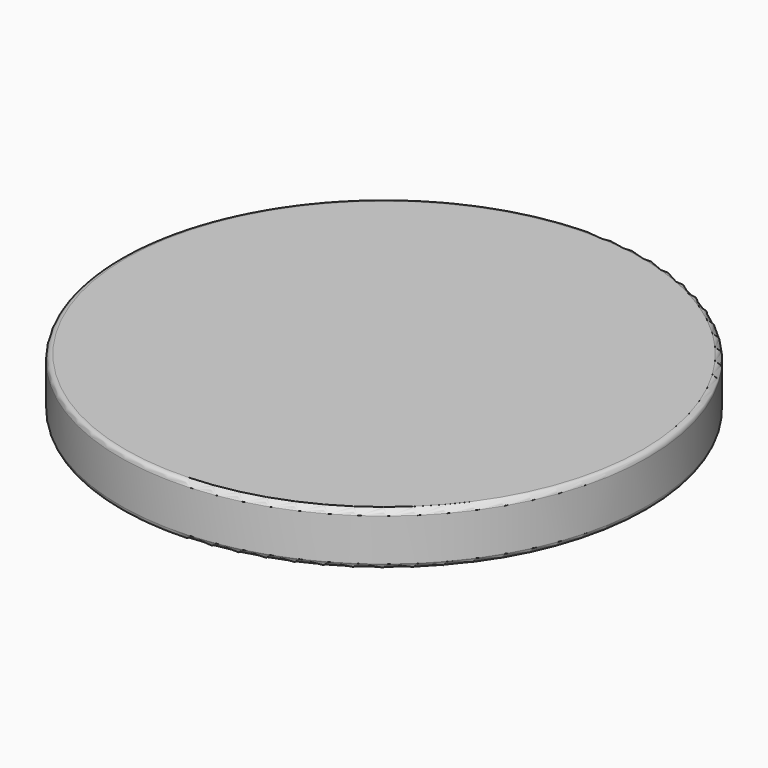
from build123d import *

# Parameters (mm, degrees)
CYLINDER001_R     = 48
CYLINDER001_DEPTH = 8
CYLINDER_R        = 50
CYLINDER_DEPTH    = 10
FILLET_R          = 1


with BuildPart() as cone:
    # Cone → Cone (revolve)
    with BuildSketch(Plane.XZ):
        Polygon((0, 0), (20, 0), (50, 8), (0, 8), align=None)
    revolve(axis=Axis((0, 0, 0), (0, 0, 1)))


with BuildPart() as cylinder001:
    # Cylinder001 → Cylinder001 (new body)
    with BuildSketch(Plane.XY):
        Circle(CYLINDER001_R)
    extrude(amount=CYLINDER001_DEPTH)


with BuildPart() as fillet_body:
    # Cylinder → Cylinder (new body)
    with BuildSketch(Plane.XY):
        Circle(CYLINDER_R)
    extrude(amount=CYLINDER_DEPTH)

    # Cut: cut Cylinder001
    add(cylinder001.part, mode=Mode.SUBTRACT)

    # Fillet
    fillet_edges = [fillet_body.edges().sort_by_distance(p)[0] for p in [
        (-50, 0, 10),
        (-50, 0, 0),
    ]]
    fillet(fillet_edges, radius=FILLET_R)


solid = Compound([cone.part, fillet_body.part])
